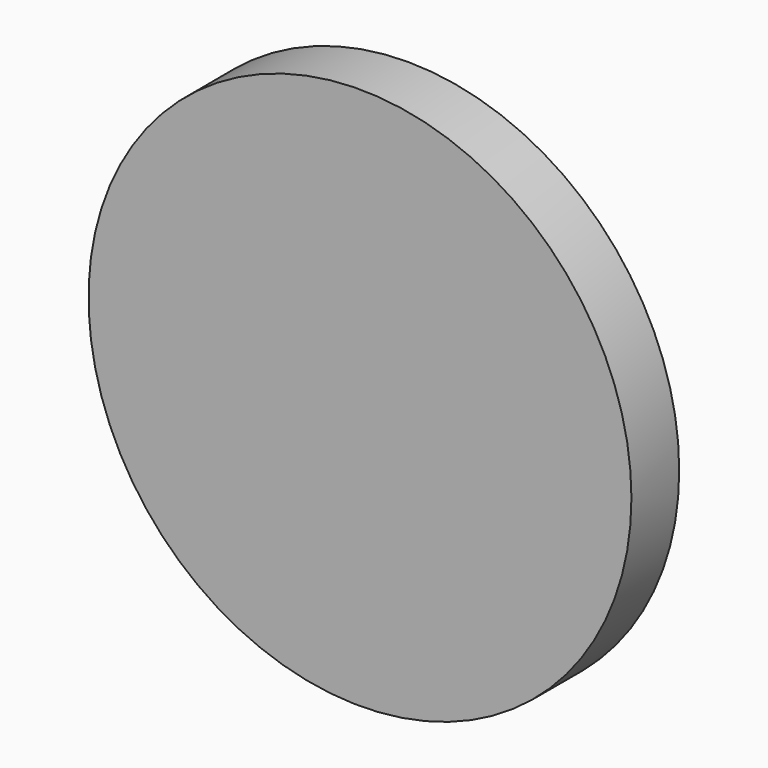
from build123d import *

# Parameters (mm, degrees)
F0_R     = 57.717149
F1_DEPTH = 12.7


with BuildPart() as f1:
    # F0 (on Front) → F1 (new body)
    with BuildSketch(Plane.XZ):
        Circle(F0_R)
    extrude(amount=F1_DEPTH)

    # F2 (on Top) → F3 (revolve, cut)
    with BuildSketch(Plane.XY):
        Polygon((0, -9.823713), (0, 0), (-57.717149, 0), (-48.053343, -7.219838), align=None)
    revolve(axis=Axis((0, -4.911857, 0), (0, 1, 0)), mode=Mode.SUBTRACT)


solid = f1.part
